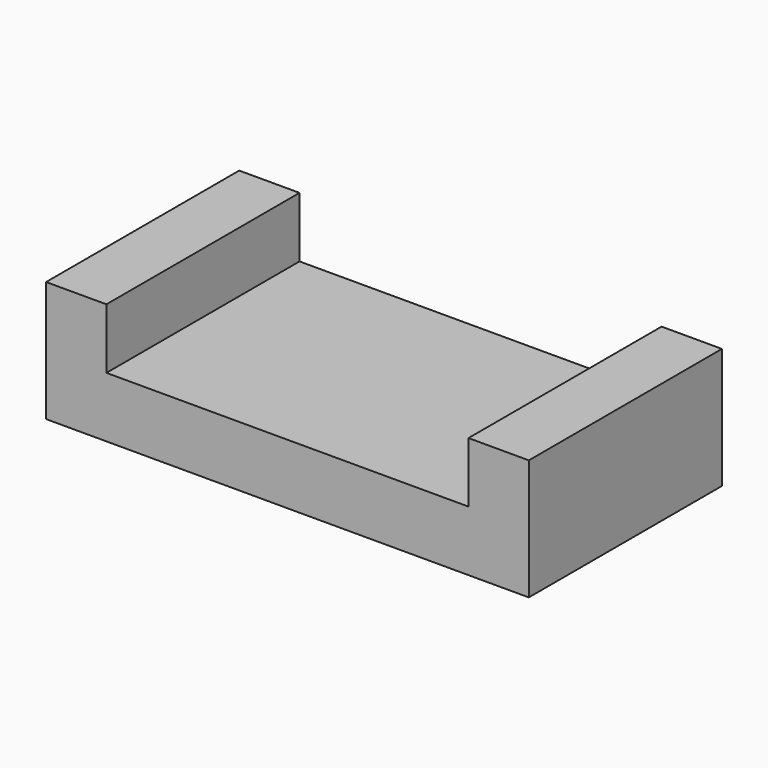
from build123d import *

# Parameters (mm, degrees)
F1_DEPTH      = 50.8
F1_DEPTH_BACK = 50.8


with BuildPart() as f1:
    # F0 (on Front) → F1 (new body, two sides)
    with BuildSketch(Plane.XZ) as f1_sk:
        Polygon((-101.6, 50.8), (-101.6, 0), (101.6, 0), (101.6, 50.8), (76.2, 50.8), (76.2, 25.4), (-76.2, 25.4), (-76.2, 50.8), align=None)
    extrude(amount=F1_DEPTH)
    extrude(f1_sk.sketch, amount=-F1_DEPTH_BACK)


solid = f1.part
